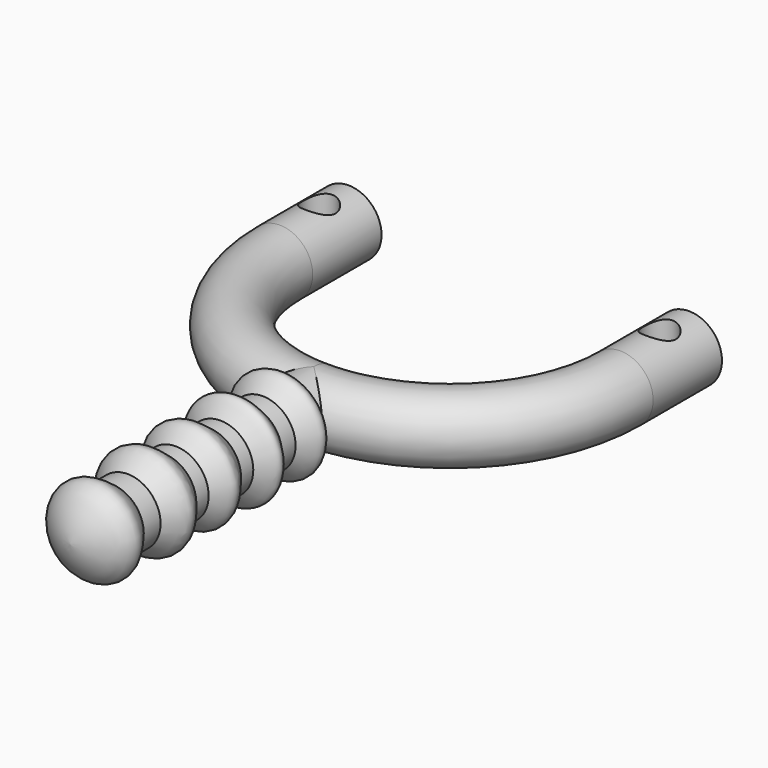
from build123d import *

# Parameters (mm, degrees)
F1_R     = 6.35
F3_R     = 6.35
F6_R     = 3.175
F7_DEPTH = 12.7


with BuildPart() as f2:
    # F2: sweep along a path in F0
    with BuildLine(Plane.XY) as f2_path:
        Line((0, 0), (0, -55.6415207684))
    # F1 (on Front) → F2 (sweep)
    with BuildSketch(Plane.XZ):
        Circle(F1_R)
    sweep(path=f2_path.line)

    # F4: sweep along a path in F0
    with BuildLine(Plane.XY) as f4_path:
        Line((-32.7913493002, 49.3660084903), (-32.7913493002, 32.7913493002))
        ThreePointArc((-32.7913493002, 32.7913493002), (-23.1869854544, 9.6043638458), (0, 0))
    # F3 (on Right) → F4 (sweep)
    with BuildSketch(Plane.YZ):
        Circle(F3_R)
    sweep(path=f4_path.line)

    # F5: sweep along a path in F0
    with BuildLine(Plane.XY) as f5_path:
        ThreePointArc((0, 0), (23.1869854544, 9.6043638458), (32.7913493002, 32.7913493002))
        Line((32.7913493002, 32.7913493002), (32.7913493002, 49.3660084903))
    # F3 (on Right) → F5 (sweep)
    with BuildSketch(Plane.YZ):
        Circle(F3_R)
    sweep(path=f5_path.line)

    # F6 (on Top) → F7 (cut, symmetric)
    with BuildSketch(Plane.XY):
        with Locations((32.7913493002, 42.2553755343)):
            Circle(F6_R)
        with Locations((-32.7913493002, 42.2553755343)):
            Circle(F6_R)
    extrude(amount=F7_DEPTH, both=True, mode=Mode.SUBTRACT)

    # F8 (on Top) → F9 (revolve)
    with BuildSketch(Plane.XY):
        with BuildLine():
            add(Edge.make_bspline(
                [(5.887706764, -5.6101414375), (7.5545362941, -6.6311263295), (11.4128782277, -9.1307771962), (2.1996074864, -14.0275221561), (12.792161508, -19.6986225922), (2.212913525, -23.3014761441), (12.4107538996, -30.0914667066), (2.3780245216, -34.3876357215), (12.6032968117, -40.6678081766), (2.2813703763, -46.5058550952), (11.2230648379, -52.614758228), (4.3372349324, -57.8883026387), (1.270803798, -58.4620218486), (0, -58.5780516267)],
                knots=[0, 0, 0, 0, 0.0800479816, 0.1704586939, 0.26493758, 0.3516205961, 0.4493001483, 0.5381151847, 0.6349551774, 0.7330356114, 0.8285997943, 0.9213794345, 1, 1, 1, 1], degree=3))
            Line((5.887706764, -5.6101414375), (0, -5.6101414375))
            Line((0, -5.6101414375), (0, -58.5780516267))
        make_face()
    revolve(axis=Axis((0, -32.0940965321, 0), (0, -1, 0)))


solid = f2.part
